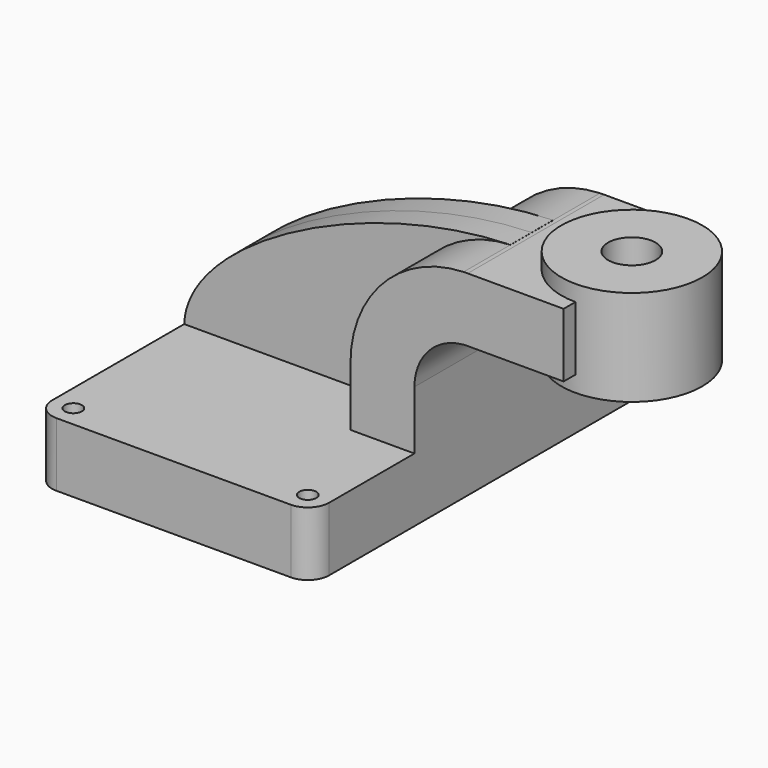
from build123d import *

# Parameters (mm, degrees)
F1_DEPTH  = 63.5
F2_DEPTH  = 25.4
F3_DEPTH  = 7.9375
F4_R      = 6.35
F6_R      = 7.0800960526
F7_DEPTH  = 34.544
F8_R      = 2.54
F9_DEPTH  = 25.4
F10_R     = 2.54
F11_DEPTH = 25.4
F12_DEPTH = 25.4


with BuildPart() as f1:
    # F0 (on Front) → F1 (new body, symmetric)
    with BuildSketch(Plane.XZ):
        Polygon((41.275, -9.525), (41.275, 9.525), (22.225, 9.525), (-41.275, 9.525), (-41.275, -9.525), align=None)
    extrude(amount=F1_DEPTH, both=True)

    # F0 (on Front) → F2 (join, symmetric)
    with BuildSketch(Plane.XZ):
        with BuildLine():
            Line((22.225, 9.525), (41.275, 9.525))
            Line((41.275, 9.525), (41.275, 27.0002))
            ThreePointArc((41.275, 27.0002), (45.4965819701, 37.7804353045), (55.9160674925, 42.827171775))
            Line((55.9160674925, 42.827171775), (55.9160674925, 61.9033952057))
            ThreePointArc((55.9160674925, 61.9033952057), (32.0218214167, 51.2557203219), (22.225, 27.0002))
            Line((22.225, 27.0002), (22.225, 9.525))
        make_face()
        with BuildLine():
            Line((55.9160674925, 61.9033952057), (55.9160674925, 42.827171775))
            ThreePointArc((55.9160674925, 42.827171775), (56.5325665737, 42.8631883995), (57.15, 42.8752))
            Line((57.15, 42.8752), (85.725, 42.8752))
            Line((85.725, 42.8752), (85.725, 61.9252))
            Line((85.725, 61.9252), (57.15, 61.9252))
            ThreePointArc((57.15, 61.9252), (56.5329374257, 61.9197483759), (55.9160674925, 61.9033952057))
        make_face()
    extrude(amount=F2_DEPTH, both=True)

    # F0 (on Front) → F3 (join, symmetric)
    with BuildSketch(Plane.XZ):
        with BuildLine():
            Line((-41.275, 9.525), (22.225, 9.525))
            Line((22.225, 9.525), (22.225, 27.0002))
            ThreePointArc((22.225, 27.0002), (32.0218214167, 51.2557203219), (55.9160674925, 61.9033952057))
            Line((55.9160674925, 61.9033952057), (55.9160674925, 61.9252))
            add(Edge.make_bspline(
                [(-41.275, 9.525), (-40.4172204435, 33.1299565732), (11.4771540301, 60.651878911), (55.9160674925, 61.9252)],
                knots=[0, 0, 0, 0, 110.4168671914, 110.4168671914, 110.4168671914, 110.4168671914], degree=3))
        make_face()
    extrude(amount=F3_DEPTH, both=True)

    # F4
    f4_edges = [f1.edges().sort_by_distance(p)[0] for p in [
        (41.275, -63.5, 0),
        (-41.275, -63.5, 0),
        (41.275, 63.5, 0),
        (-41.275, 63.5, 0),
    ]]
    fillet(f4_edges, radius=F4_R)

    # F0 (on Front) → F5 (revolve)
    with BuildSketch(Plane.XZ):
        Polygon((85.725, 42.8752), (85.725, 38.1), (106.7160674925, 38.1), (106.7160674925, 66.675), (85.725, 66.675), (85.725, 61.9252), align=None)
    revolve(axis=Axis((85.725, 0, 52.3875), (0, 0, -1)))

    # F6 (on face) → F7 (cut)
    with BuildSketch(Plane.XY.offset(66.675)):
        with Locations((85.725, 0)):
            Circle(F6_R)
    extrude(amount=-F7_DEPTH, mode=Mode.SUBTRACT)

    # F8 (on face) → F9 (cut)
    with BuildSketch(Plane.XY.offset(9.525)):
        with Locations((-34.925, -57.15)):
            Circle(F8_R)
    extrude(amount=-F9_DEPTH, mode=Mode.SUBTRACT)

    # F10 (on face) → F11 (cut)
    with BuildSketch(Plane.XY.offset(9.525)):
        with Locations((-34.925, 57.15)):
            Circle(F10_R)
    extrude(amount=-F11_DEPTH, mode=Mode.SUBTRACT)

    # F8 (on face) → F12 (cut)
    with BuildSketch(Plane.XY.offset(9.525)):
        with Locations((34.925, -57.15)):
            Circle(F8_R)
    extrude(amount=-F12_DEPTH, mode=Mode.SUBTRACT)


solid = f1.part
